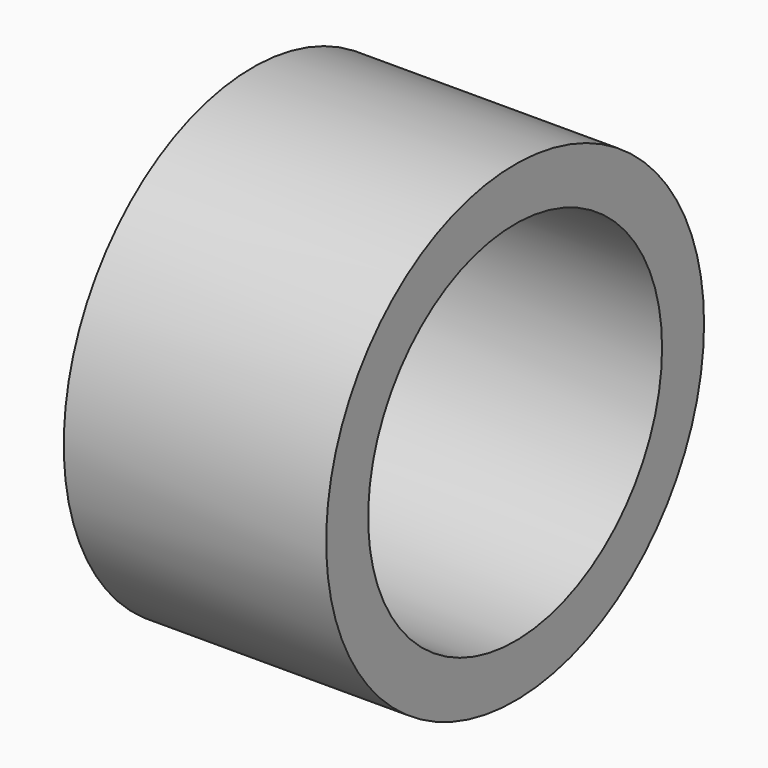
from build123d import *

# Parameters (mm, degrees)
SKETCH001_R   = 13.5
SKETCH001_R_2 = 10.5
PAD001_DEPTH  = 15


with BuildPart() as part:
    # Sketch001 → Pad001 (new body)
    with BuildSketch(Plane.YZ):
        with Locations((0, 14.5)):
            Circle(SKETCH001_R)
        with Locations((0, 14.5)):
            Circle(SKETCH001_R_2, mode=Mode.SUBTRACT)
    extrude(amount=PAD001_DEPTH)


solid = part.part
